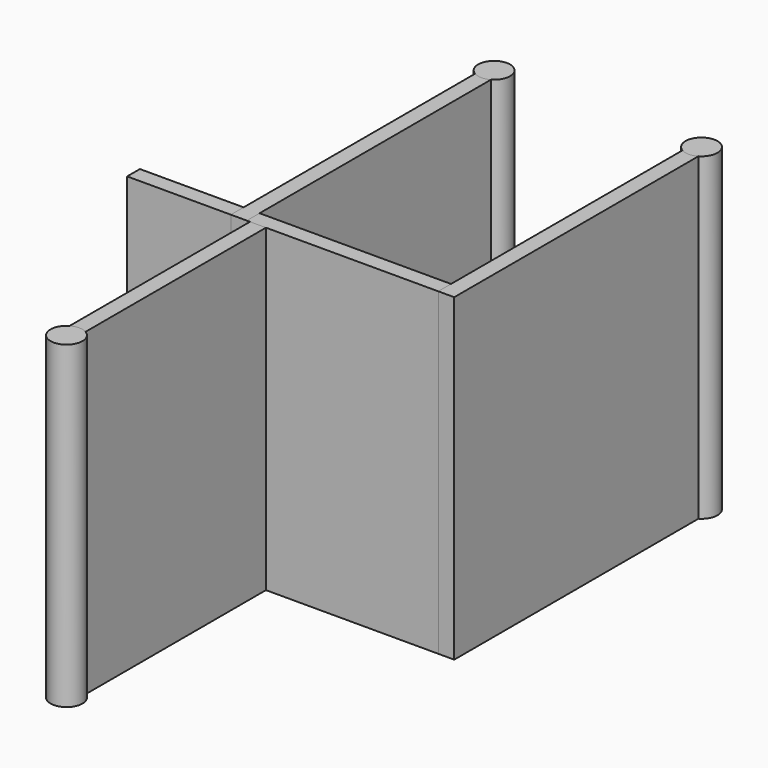
from build123d import *

# Parameters (mm, degrees)
BOX_W             = 19.5
BOX_H             = 1
BOX_DEPTH         = 20
BOX001_W          = 1
BOX001_H          = 20
BOX001_DEPTH      = 20
BOX002_W          = 1
BOX002_H          = 20
BOX002_DEPTH      = 20
CYLINDER_R        = 1
CYLINDER_DEPTH    = 20
CYLINDER001_R     = 1
CYLINDER001_DEPTH = 20
BOX003_W          = 1
BOX003_H          = 15
BOX003_DEPTH      = 20
CYLINDER002_R     = 1
CYLINDER002_DEPTH = 20


with BuildPart() as cube:
    # Box → Box (new body)
    with BuildSketch(Plane.XY):
        with Locations((9.75, 0.5)):
            Rectangle(BOX_W, BOX_H)
    extrude(amount=BOX_DEPTH)


with BuildPart() as cube001:
    # Box001 → Box001 (new body)
    with BuildSketch(Plane(origin=(6.5, 0, 0), x_dir=(1, 0, 0), z_dir=(0, 0, 1))):
        with Locations((0.5, 10)):
            Rectangle(BOX001_W, BOX001_H)
    extrude(amount=BOX001_DEPTH)


with BuildPart() as cube002:
    # Box002 → Box002 (new body)
    with BuildSketch(Plane(origin=(19.5, 0, 0), x_dir=(1, 0, 0), z_dir=(0, 0, 1))):
        with Locations((0.5, 10)):
            Rectangle(BOX002_W, BOX002_H)
    extrude(amount=BOX002_DEPTH)


with BuildPart() as cylinder:
    # Cylinder → Cylinder (new body)
    with BuildSketch(Plane(origin=(7, 20, 0), x_dir=(1, 0, 0), z_dir=(0, 0, 1))):
        Circle(CYLINDER_R)
    extrude(amount=CYLINDER_DEPTH)


with BuildPart() as cylinder001:
    # Cylinder001 → Cylinder001 (new body)
    with BuildSketch(Plane(origin=(20, 20, 0), x_dir=(1, 0, 0), z_dir=(0, 0, 1))):
        Circle(CYLINDER001_R)
    extrude(amount=CYLINDER001_DEPTH)


with BuildPart() as cube003:
    # Box003 → Box003 (new body)
    with BuildSketch(Plane(origin=(7.7, -15, 0), x_dir=(1, 0, 0), z_dir=(0, 0, 1))):
        with Locations((0.5, 7.5)):
            Rectangle(BOX003_W, BOX003_H)
    extrude(amount=BOX003_DEPTH)


with BuildPart() as cylinder002:
    # Cylinder002 → Cylinder002 (new body)
    with BuildSketch(Plane(origin=(8.2, -15, 0), x_dir=(1, 0, 0), z_dir=(0, 0, 1))):
        Circle(CYLINDER002_R)
    extrude(amount=CYLINDER002_DEPTH)


solid = Compound([cube.part, cube001.part, cube002.part, cylinder.part, cylinder001.part, cube003.part, cylinder002.part])
